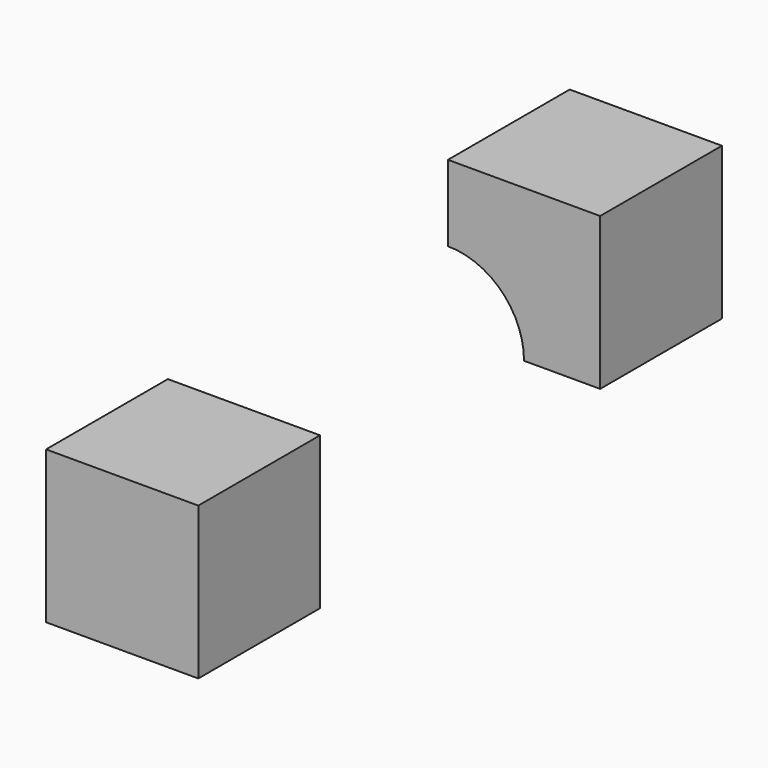
from build123d import *

# Parameters (mm, degrees)
BOX_W     = 10
BOX_H     = 10
BOX_DEPTH = 10
SKETCH_W  = 10
SKETCH_H  = 10
PAD_DEPTH = 10


with BuildPart() as sphere:
    # Sphere → Sphere (revolve)
    with BuildSketch(Plane.XZ):
        with BuildLine():
            ThreePointArc((0, -5), (5, 0), (0, 5))
            Line((0, 5), (0, -5))
        make_face()
    revolve(axis=Axis((0, 0, 0), (0, 0, 1)))


with BuildPart() as cut:
    # Box → Box (new body)
    with BuildSketch(Plane.XY):
        with Locations((5, 5)):
            Rectangle(BOX_W, BOX_H)
    extrude(amount=BOX_DEPTH)

    # Cut: cut Sphere
    add(sphere.part, mode=Mode.SUBTRACT)


with BuildPart() as body:
    # Sketch → Pad (new body)
    with BuildSketch(Plane.XY):
        Rectangle(SKETCH_W, SKETCH_H)
    extrude(amount=PAD_DEPTH)


with BuildPart() as body_1:
    # Body placement: moved
    add(body.part.moved(Location((9, -33, 0))))


solid = Compound([cut.part, body_1.part])
